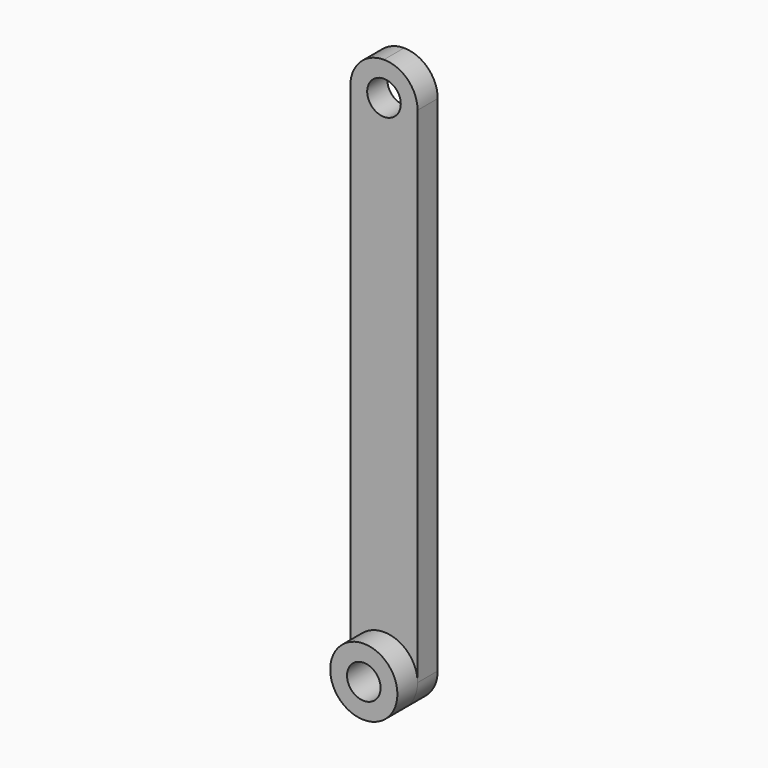
from build123d import *

# Parameters (mm, degrees)
F0_R     = 50.8
F1_DEPTH = 76.2
F2_R     = 101.6
F2_R_2   = 50.8
F3_DEPTH = 76.2


with BuildPart() as f1:
    # F0 (on Front) → F1 (new body)
    with BuildSketch(Plane.XZ):
        with BuildLine():
            Line((-101.6, 1524), (-101.6, 0))
            ThreePointArc((-101.6, 0), (-71.842049, -71.842049), (0, -101.6))
            ThreePointArc((0, -101.6), (71.842049, -71.842049), (101.6, 0))
            Line((101.6, 0), (101.6, 1524))
            ThreePointArc((101.6, 1524), (71.842049, 1595.842049), (0, 1625.6))
            ThreePointArc((0, 1625.6), (-71.842049, 1595.842049), (-101.6, 1524))
        make_face()
        Circle(F0_R, mode=Mode.SUBTRACT)
        with Locations((0, 1524)):
            Circle(F0_R, mode=Mode.SUBTRACT)
    extrude(amount=F1_DEPTH)

    # F2 (on face) → F3 (join)
    with BuildSketch(Plane.XZ.offset(76.2)):
        Circle(F2_R)
        Circle(F2_R_2, mode=Mode.SUBTRACT)
    extrude(amount=F3_DEPTH)


solid = f1.part
